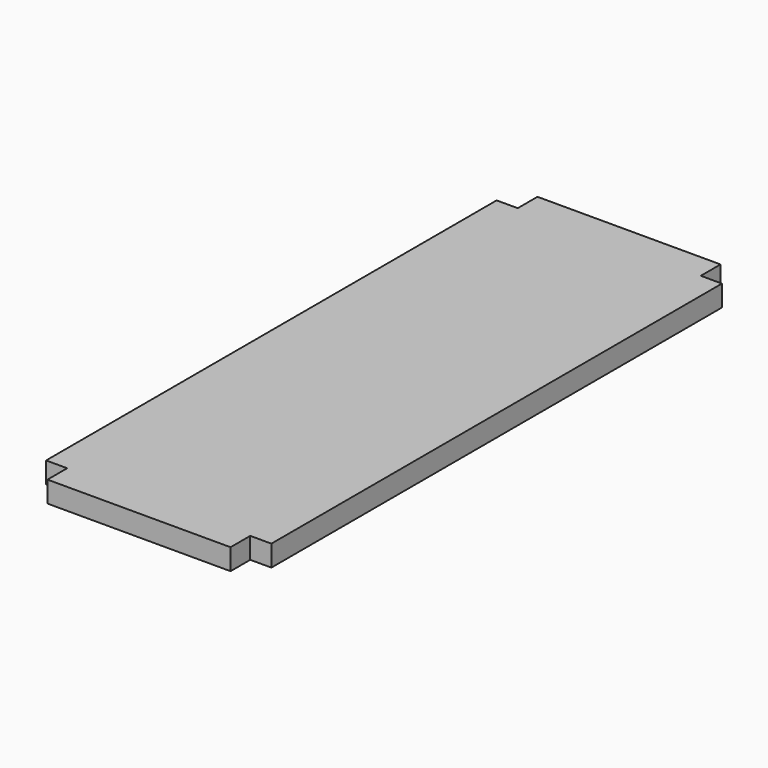
from build123d import *

# Parameters (mm, degrees)
F0_W     = 38.1
F0_H     = 88.9
F1_DEPTH = 38.1


with BuildPart() as f1:
    # F0 (on Top) → F1 (new body)
    with BuildSketch(Plane.XY):
        Polygon((0, 1155.7), (0, 717.55), (38.1, 717.55), (38.1, 628.65), (0, 628.65), (0, 139.7), (38.1, 139.7), (38.1, 95.25), (368.3, 95.25), (368.3, 139.7), (406.4, 139.7), (406.4, 628.65), (368.3, 628.65), (368.3, 717.55), (406.4, 717.55), (406.4, 1155.7), (368.3, 1155.7), (368.3, 1200.15), (38.1, 1200.15), (38.1, 1155.7), align=None)
        with Locations((19.05, 673.1)):
            Rectangle(F0_W, F0_H)
        with Locations((387.35, 673.1)):
            Rectangle(F0_W, F0_H)
    extrude(amount=F1_DEPTH)


solid = f1.part
